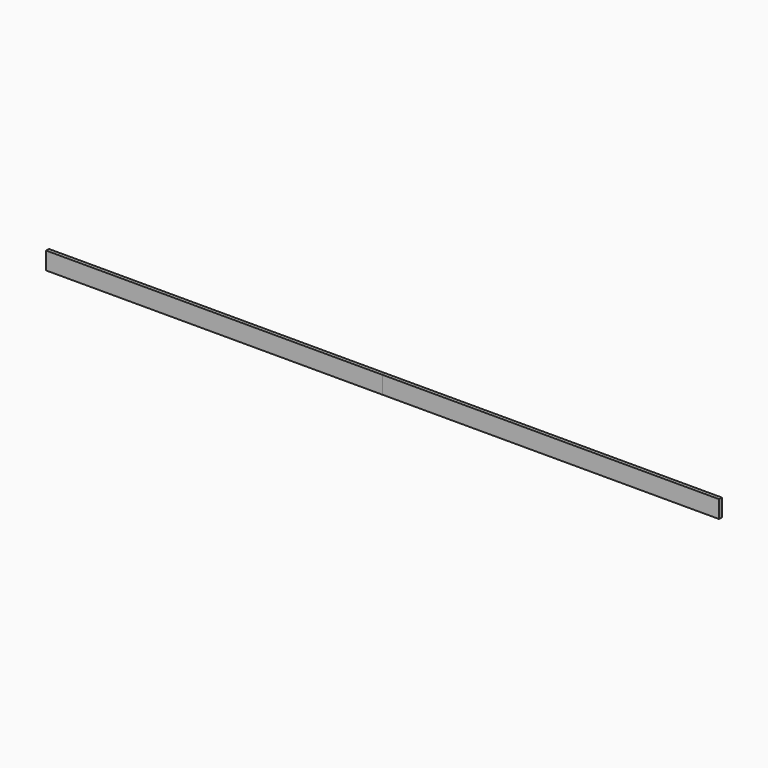
from build123d import *

# Parameters (mm, degrees)
F0_W     = 609.6
F0_H     = 31.75
F1_DEPTH = 6.35
F3_DEPTH = 0.254


with BuildPart() as f1:
    # F0 (on Front) → F1 (new body)
    with BuildSketch(Plane.XZ):
        with Locations((-92.572312, 8.647628)):
            Rectangle(F0_W, F0_H)
        Polygon((-103.370848, 16.477617), (-29.560988, 22.935128), (-29.28427, 19.772209), (-103.094129, 13.314699), align=None, mode=Mode.SUBTRACT)
        Polygon((50.905979, 19.772209), (51.182697, 22.935128), (124.992557, 16.477617), (124.715838, 13.314699), align=None, mode=Mode.SUBTRACT)
        Polygon((-29.28427, 19.772209), (-29.560988, 22.935128), (-103.370848, 16.477617), (-103.094129, 13.314699), align=None)
        Polygon((124.992557, 16.477617), (51.182697, 22.935128), (50.905979, 19.772209), (124.715838, 13.314699), align=None)
    extrude(amount=F1_DEPTH)

    # F0 (on Front) → F3 (join)
    with BuildSketch(Plane.XZ):
        Polygon((124.992557, 16.477617), (51.182697, 22.935128), (50.905979, 19.772209), (124.715838, 13.314699), align=None)
    extrude(amount=-F3_DEPTH)


with BuildPart() as f2_1:
    # F2: instance of F1
    add(f1.part.mirror(Plane(origin=(-397.372312, -3.175, 8.647628), x_dir=(0, -1, 0), z_dir=(-1, 0, 0))))


with BuildPart() as f5_1:
    # F5: instance of F1
    add(f1.part.mirror(Plane(origin=(-397.372312, -3.175, 8.647628), x_dir=(0, -1, 0), z_dir=(-1, 0, 0))))


solid = Compound([f1.part, f5_1.part])
